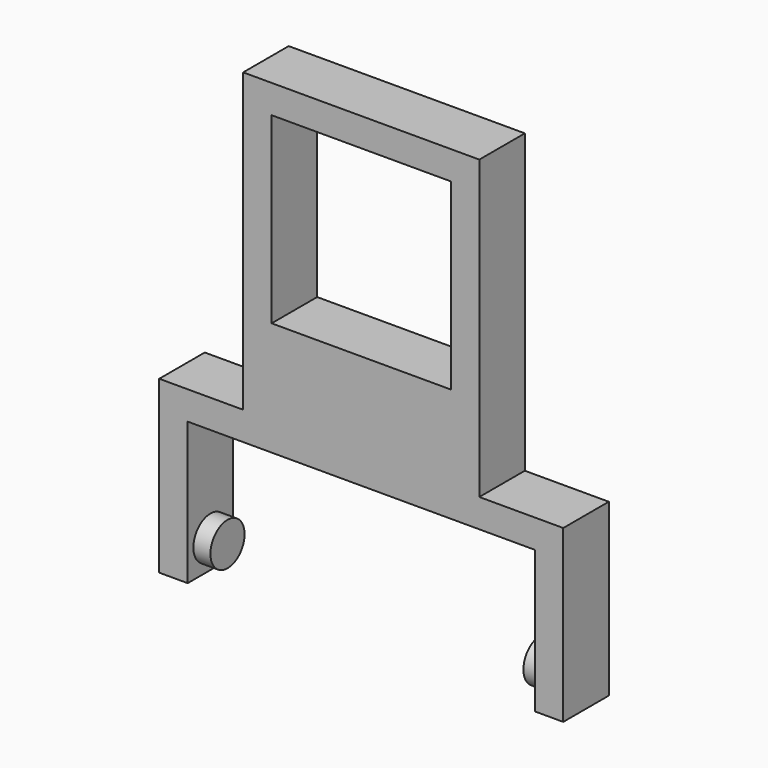
from build123d import *

# Parameters (mm, degrees)
F1_W      = 41.5
F1_H      = 42.2
F2_DEPTH  = 10
F0_W      = 31.5
F0_H      = 32.2
F3_DEPTH  = 25
F4_W      = 5
F4_H      = 10
F5_DEPTH  = 10
F6_W      = 71
F6_H      = 10
F7_DEPTH  = 5
F8_W      = 5
F8_H      = 10
F9_DEPTH  = 25
F11_R     = 3.75
F12_DEPTH = 3
F13_W     = 31.5
F13_H     = 10
F14_DEPTH = 10
F10_R     = 3.75
F15_DEPTH = 3


with BuildPart() as f2:
    # F1 (on Front) → F2 (new body)
    with BuildSketch(Plane.XZ):
        with Locations((-15.75, 16.1)):
            Rectangle(F1_W, F1_H)
    extrude(amount=F2_DEPTH)

    # F0 (on Front) → F3 (cut)
    with BuildSketch(Plane.XZ):
        with Locations((-15.75, 16.1)):
            Rectangle(F0_W, F0_H)
    extrude(amount=F3_DEPTH, mode=Mode.SUBTRACT)

    # F4 (on face) → F5 (join)
    with BuildSketch(Plane(origin=(0, 0, -5), x_dir=(1, 0, 0), z_dir=(0, 0, -1))):
        with Locations((2.5, 5)):
            Rectangle(F4_W, F4_H)
        with Locations((-34, 5)):
            Rectangle(F4_W, F4_H)
    extrude(amount=F5_DEPTH)

    # F6 (on face) → F7 (join)
    with BuildSketch(Plane(origin=(0, 0, -15), x_dir=(1, 0, 0), z_dir=(0, 0, -1))):
        with Locations((-15.75, 5)):
            Rectangle(F6_W, F6_H)
    extrude(amount=F7_DEPTH)

    # F8 (on face) → F9 (join)
    with BuildSketch(Plane(origin=(0, 0, -20), x_dir=(1, 0, 0), z_dir=(0, 0, -1))):
        with Locations((17.25, 5)):
            Rectangle(F8_W, F8_H)
        with Locations((-48.75, 5)):
            Rectangle(F8_W, F8_H)
    extrude(amount=F9_DEPTH)

    # F11 (on face) → F12 (join)
    with BuildSketch(Plane.YZ.offset(-46.25)):
        with Locations((-5, -40)):
            Circle(F11_R)
    extrude(amount=F12_DEPTH)

    # F13 (on face) → F14 (join)
    with BuildSketch(Plane(origin=(0, 0, 0), x_dir=(-1, 0, 0), z_dir=(0, 1, 0))):
        with Locations((15.75, -10)):
            Rectangle(F13_W, F13_H)
    extrude(amount=-F14_DEPTH)

    # F10 (on face) → F15 (join)
    with BuildSketch(Plane(origin=(14.75, 0, 0), x_dir=(0, -1, 0), z_dir=(-1, 0, 0))):
        with Locations((5, -40)):
            Circle(F10_R)
    extrude(amount=F15_DEPTH)


solid = f2.part
